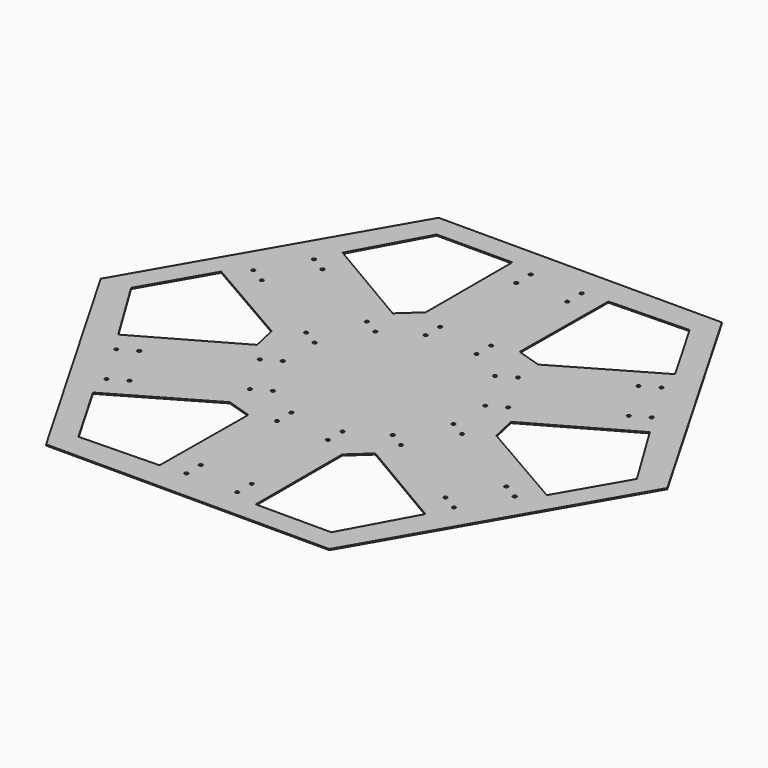
from build123d import *

# Parameters (mm, degrees)
F0_R     = 1.5
F1_DEPTH = 1
F3_DEPTH = 25


with BuildPart() as f1:
    # F0 (on Top) → F1 (new body)
    with BuildSketch(Plane.XY):
        Polygon((125, -216.506351), (250, 0), (125, 216.506351), (-125, 216.506351), (-250, 0), (-125, -216.506351), align=None)
        with Locations((-153.300327, -114.488747)):
            Circle(F0_R, mode=Mode.SUBTRACT)
        with Locations((-22.5, -190.006351)):
            Circle(F0_R, mode=Mode.SUBTRACT)
        with Locations((-22.5, -174.006351)):
            Circle(F0_R, mode=Mode.SUBTRACT)
        with Locations((-139.44392, -106.488747)):
            Circle(F0_R, mode=Mode.SUBTRACT)
        with Locations((-175.800327, -75.517604)):
            Circle(F0_R, mode=Mode.SUBTRACT)
        with Locations((-161.94392, -67.517604)):
            Circle(F0_R, mode=Mode.SUBTRACT)
        with Locations((-66.697786, -64.488747)):
            Circle(F0_R, mode=Mode.SUBTRACT)
        with Locations((-22.5, -90.006351)):
            Circle(F0_R, mode=Mode.SUBTRACT)
        with Locations((-52.84138, -56.488747)):
            Circle(F0_R, mode=Mode.SUBTRACT)
        with Locations((-22.5, -74.006351)):
            Circle(F0_R, mode=Mode.SUBTRACT)
        with Locations((-89.197786, -25.517604)):
            Circle(F0_R, mode=Mode.SUBTRACT)
        with Locations((-75.34138, -17.517604)):
            Circle(F0_R, mode=Mode.SUBTRACT)
        with Locations((22.5, -190.006351)):
            Circle(F0_R, mode=Mode.SUBTRACT)
        with Locations((22.5, -174.006351)):
            Circle(F0_R, mode=Mode.SUBTRACT)
        with Locations((153.300327, -114.488747)):
            Circle(F0_R, mode=Mode.SUBTRACT)
        with Locations((22.5, -90.006351)):
            Circle(F0_R, mode=Mode.SUBTRACT)
        with Locations((22.5, -74.006351)):
            Circle(F0_R, mode=Mode.SUBTRACT)
        with Locations((52.84138, -56.488747)):
            Circle(F0_R, mode=Mode.SUBTRACT)
        with Locations((66.697786, -64.488747)):
            Circle(F0_R, mode=Mode.SUBTRACT)
        with Locations((75.34138, -17.517604)):
            Circle(F0_R, mode=Mode.SUBTRACT)
        with Locations((89.197786, -25.517604)):
            Circle(F0_R, mode=Mode.SUBTRACT)
        with Locations((139.44392, -106.488747)):
            Circle(F0_R, mode=Mode.SUBTRACT)
        with Locations((175.800327, -75.517604)):
            Circle(F0_R, mode=Mode.SUBTRACT)
        with Locations((161.94392, -67.517604)):
            Circle(F0_R, mode=Mode.SUBTRACT)
        with Locations((-161.94392, 67.517604)):
            Circle(F0_R, mode=Mode.SUBTRACT)
        with Locations((-175.800327, 75.517604)):
            Circle(F0_R, mode=Mode.SUBTRACT)
        with Locations((-139.44392, 106.488747)):
            Circle(F0_R, mode=Mode.SUBTRACT)
        with Locations((-89.197786, 25.517604)):
            Circle(F0_R, mode=Mode.SUBTRACT)
        with Locations((-75.34138, 17.517604)):
            Circle(F0_R, mode=Mode.SUBTRACT)
        with Locations((-66.697786, 64.488747)):
            Circle(F0_R, mode=Mode.SUBTRACT)
        with Locations((-52.84138, 56.488747)):
            Circle(F0_R, mode=Mode.SUBTRACT)
        with Locations((-22.5, 74.006351)):
            Circle(F0_R, mode=Mode.SUBTRACT)
        with Locations((-22.5, 90.006351)):
            Circle(F0_R, mode=Mode.SUBTRACT)
        with Locations((-153.300327, 114.488747)):
            Circle(F0_R, mode=Mode.SUBTRACT)
        with Locations((-22.5, 174.006351)):
            Circle(F0_R, mode=Mode.SUBTRACT)
        with Locations((-22.5, 190.006351)):
            Circle(F0_R, mode=Mode.SUBTRACT)
        with Locations((75.34138, 17.517604)):
            Circle(F0_R, mode=Mode.SUBTRACT)
        with Locations((89.197786, 25.517604)):
            Circle(F0_R, mode=Mode.SUBTRACT)
        with Locations((22.5, 74.006351)):
            Circle(F0_R, mode=Mode.SUBTRACT)
        with Locations((52.84138, 56.488747)):
            Circle(F0_R, mode=Mode.SUBTRACT)
        with Locations((22.5, 90.006351)):
            Circle(F0_R, mode=Mode.SUBTRACT)
        with Locations((66.697786, 64.488747)):
            Circle(F0_R, mode=Mode.SUBTRACT)
        with Locations((161.94392, 67.517604)):
            Circle(F0_R, mode=Mode.SUBTRACT)
        with Locations((175.800327, 75.517604)):
            Circle(F0_R, mode=Mode.SUBTRACT)
        with Locations((139.44392, 106.488747)):
            Circle(F0_R, mode=Mode.SUBTRACT)
        with Locations((22.5, 174.006351)):
            Circle(F0_R, mode=Mode.SUBTRACT)
        with Locations((22.5, 190.006351)):
            Circle(F0_R, mode=Mode.SUBTRACT)
        with Locations((153.300327, 114.488747)):
            Circle(F0_R, mode=Mode.SUBTRACT)
    extrude(amount=F1_DEPTH)

    # F2 (on face) → F3 (cut)
    with BuildSketch(Plane.XY.offset(1)):
        Polygon((-110.432692, 196.217343), (-144.11898, 134.459153), (-60.60506, 85.333318), (-43.761913, 100.772865), (-43.761913, 196.217343), align=None)
        Polygon((-225.14555, 2.471155), (-188.504532, -57.581121), (-104.203351, -9.818863), (-109.152818, 12.487504), (-191.81016, 60.209743), align=None)
        Polygon((-114.712858, -193.746188), (-44.385552, -192.040274), (-43.598291, -95.152181), (-65.390905, -88.285361), (-148.048248, -136.0076), align=None)
        Polygon((110.432692, -196.217343), (144.11898, -134.459153), (60.60506, -85.333318), (43.761913, -100.772865), (43.761913, -196.217343), align=None)
        Polygon((225.14555, -2.471155), (188.504532, 57.581121), (104.203351, 9.818863), (109.152818, -12.487504), (191.81016, -60.209743), align=None)
        Polygon((114.712858, 193.746188), (44.385552, 192.040274), (43.598291, 95.152181), (65.390905, 88.285361), (148.048248, 136.0076), align=None)
    extrude(amount=-F3_DEPTH, mode=Mode.SUBTRACT)


solid = f1.part
